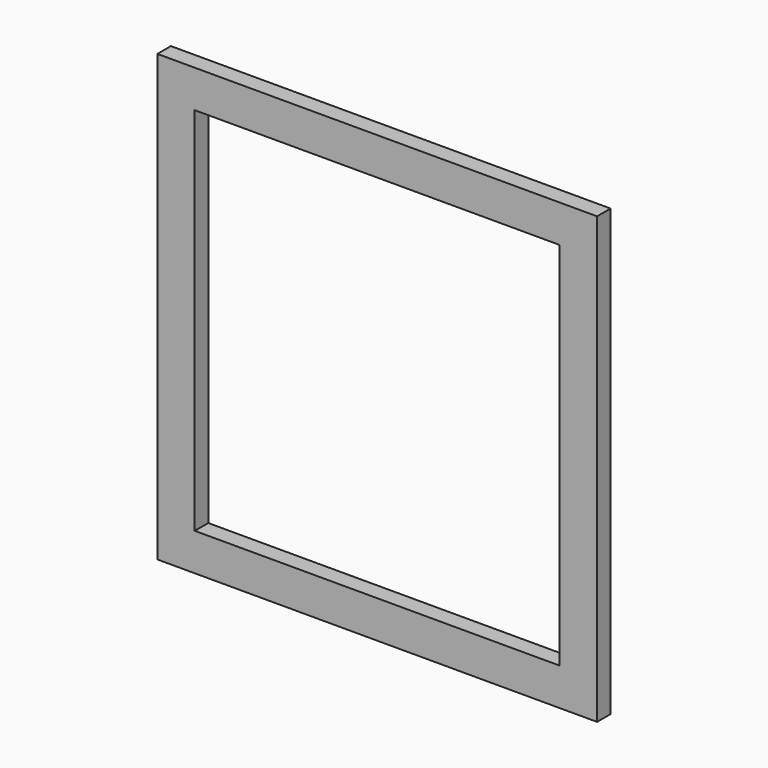
from build123d import *

# Parameters (mm, degrees)
F0_W     = 410
F0_H     = 42
F1_DEPTH = 19


with BuildPart() as f1:
    # F0 (on Front) → F1 (new body)
    with BuildSketch(Plane.XZ):
        with Locations((0, 215.529412)):
            Rectangle(F0_W, F0_H)
        Polygon((205, 236.529412), (205, 194.529412), (205, -221.470588), (205, -263.470588), (247, -263.470588), (247, 236.529412), align=None)
        Polygon((-205, -221.470588), (-205, 194.529412), (-205, 236.529412), (-247, 236.529412), (-247, -263.470588), (-205, -263.470588), align=None)
        with Locations((0, -242.470588)):
            Rectangle(F0_W, F0_H)
    extrude(amount=F1_DEPTH)


solid = f1.part
